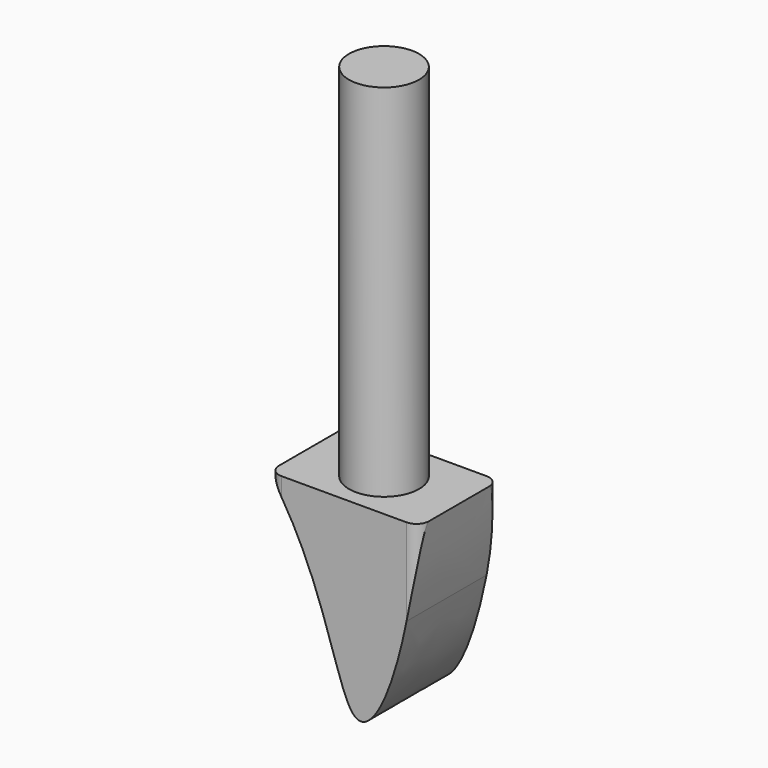
from build123d import *

# Parameters (mm, degrees)
F0_R     = 14
F1_DEPTH = 144
F2_W     = 60
F2_H     = 40
F3_DEPTH = 80
F4_R     = 5
F6_DEPTH = 80


with BuildPart() as f1:
    # F0 (on Top) → F1 (new body)
    with BuildSketch(Plane.XY):
        Circle(F0_R)
        Circle(F0_R)
    extrude(amount=F1_DEPTH)

    # F2 (on Top) → F3 (join)
    with BuildSketch(Plane.XY):
        Rectangle(F2_W, F2_H)
        Rectangle(F2_W, F2_H)
    extrude(amount=-F3_DEPTH)

    # F4
    f4_edges = [f1.edges().sort_by_distance(p)[0] for p in [
        (-30, -20, -40),
        (-30, 20, -40),
        (30, -20, -40),
        (30, 20, -40),
    ]]
    fillet(f4_edges, radius=F4_R)

    # F5 (on face) → F6 (cut)
    with BuildSketch(Plane.XZ.offset(20)):
        with BuildLine():
            add(Edge.make_bspline(
                [(-25, -7.340222688), (-5.9667022268, -37.5563815562), (0.3915651661, -97.6586740831), (19.1088343549, -64.1343636696), (25, -34.8043713491)],
                knots=[0.0382881592, 0.0382881592, 0.0382881592, 0.0382881592, 0.5056648306, 0.8745963151, 0.8745963151, 0.8745963151, 0.8745963151], degree=3))
            Line((-25, -7.340222688), (-25, -80))
            Line((-25, -80), (25, -80))
            Line((25, -80), (25, -34.8043713491))
        make_face()
        with BuildLine():
            add(Edge.make_bspline(
                [(-30, 0), (-28.2223571299, -2.4121543531), (-26.5592347237, -4.8648721374), (-25, -7.340222688)],
                knots=[0, 0, 0, 0, 0.0382881592, 0.0382881592, 0.0382881592, 0.0382881592], degree=3))
            Line((-30, 0), (-30, -90))
            Line((-30, -90), (30, -90))
            Line((30, -90), (30, 0))
            add(Edge.make_bspline(
                [(25, -34.8043713491), (27.0024690524, -24.8347990321), (28.7315925241, -13.1851745619), (30, 0)],
                knots=[0.8745963151, 0.8745963151, 0.8745963151, 0.8745963151, 1, 1, 1, 1], degree=3))
            Line((25, -34.8043713491), (25, -80))
            Line((25, -80), (-25, -80))
            Line((-25, -80), (-25, -7.340222688))
        make_face()
    extrude(amount=-F6_DEPTH, mode=Mode.SUBTRACT)


solid = f1.part
